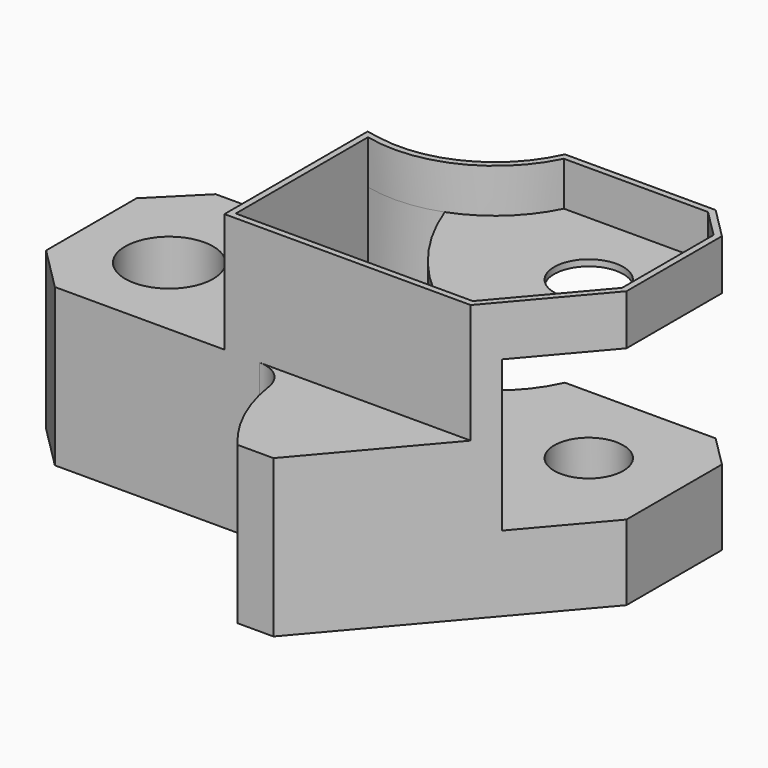
from build123d import *

# Parameters (mm, degrees)
F1_R      = 7
F2_DEPTH  = 22
F3_R      = 5.5
F4_DEPTH  = 44.001
F6_DEPTH  = 19
F8_R      = 41
F9_DEPTH  = 24
F11_DEPTH = 7
F13_DEPTH = 25


with BuildPart() as f2:
    # F1 (on Top) → F2 (new body, symmetric)
    with BuildSketch(Plane.XY):
        with BuildLine():
            Line((-5.7030199473, 0), (0, 0))
            Line((0, 0), (29, 34))
            Line((29, 34), (29, 53))
            Line((29, 53), (24, 58))
            Line((24, 58), (0, 58))
            ThreePointArc((0, 58), (-8.4389012943, 48.9820441422), (-20.6386191642, 47.0570852328))
            Line((-20.6386191642, 47.0570852328), (-43, 51))
            Line((-43, 51), (-50, 51))
            Line((-50, 51), (-57, 44))
            Line((-57, 44), (-57, 26))
            Line((-57, 26), (-50, 19))
            Line((-50, 19), (-17.4244610887, 19))
            ThreePointArc((-17.4244610887, 19), (-14.1592253076, 17.7865862322), (-12.4788223472, 14.7352941176))
            ThreePointArc((-12.4788223472, 14.7352941176), (-10.1419921441, 6.884327939), (-5.7030199473, 0))
        make_face()
        with Locations((-43, 33)):
            Circle(F1_R, mode=Mode.SUBTRACT)
    extrude(amount=F2_DEPTH, both=True)

    # F3 (on face) → F4 (cut, through all)
    with BuildSketch(Plane.XY.offset(22)):
        with Locations((15, 44)):
            Circle(F3_R)
    extrude(amount=-F4_DEPTH, mode=Mode.SUBTRACT)

    # F5 (on face) → F6 (cut)
    with BuildSketch(Plane.XY.offset(22)):
        with BuildLine():
            Line((16.2058823529, 19), (-17.4244610887, 19))
            ThreePointArc((-17.4244610887, 19), (-14.1592253076, 17.7865862322), (-12.4788223472, 14.7352941176))
            ThreePointArc((-12.4788223472, 14.7352941176), (-10.1419921441, 6.884327939), (-5.7030199473, 0))
            Line((-5.7030199473, 0), (0, 0))
            Line((0, 0), (16.2058823529, 19))
        make_face()
        Polygon((-23, 19), (-23, 47.4734603858), (-43, 51), (-50, 51), (-57, 44), (-57, 26), (-50, 19), align=None)
    extrude(amount=-F6_DEPTH, mode=Mode.SUBTRACT)

    # F8 (on offset) → F9 (cut)
    with BuildSketch(Plane(origin=(0, 0, -10), x_dir=(1, 0, 0), z_dir=(0, 0, -1))):
        with Locations((29, -61.701873436)):
            Circle(F8_R)
    extrude(amount=-F9_DEPTH, mode=Mode.SUBTRACT)

    # F10 (on face) → F11 (cut)
    with BuildSketch(Plane.XY.offset(22)):
        with BuildLine():
            Line((28, 34.3685450325), (28, 52.5857864376))
            Line((28, 52.5857864376), (23.5857864376, 57))
            Line((23.5857864376, 57), (0.6360846855, 57))
            ThreePointArc((0.6360846855, 57), (-8.8046185318, 47.6808913149), (-22, 46.3190646627))
            Line((-22, 46.3190646627), (-22, 20))
            Line((-22, 20), (15.7444762958, 20))
            Line((15.7444762958, 20), (28, 34.3685450325))
        make_face()
    extrude(amount=-F11_DEPTH, mode=Mode.SUBTRACT)

    # F12 (on face) → F13 (cut, through all)
    with BuildSketch(Plane.XY.offset(15)):
        with BuildLine():
            ThreePointArc((-10.3533170567, 47.0282087051), (-16.1237934763, 45.805403344), (-22, 46.3190646627))
            Line((-22, 46.3190646627), (-22, 20))
            Line((-22, 20), (15.7444762958, 20))
            Line((15.7444762958, 20), (16.9868477468, 21.4565734254))
            ThreePointArc((16.9868477468, 21.4565734254), (0.310181683, 31.0278726382), (-10.3533170567, 47.0282087051))
        make_face()
    extrude(amount=-F13_DEPTH, mode=Mode.SUBTRACT)


solid = f2.part
